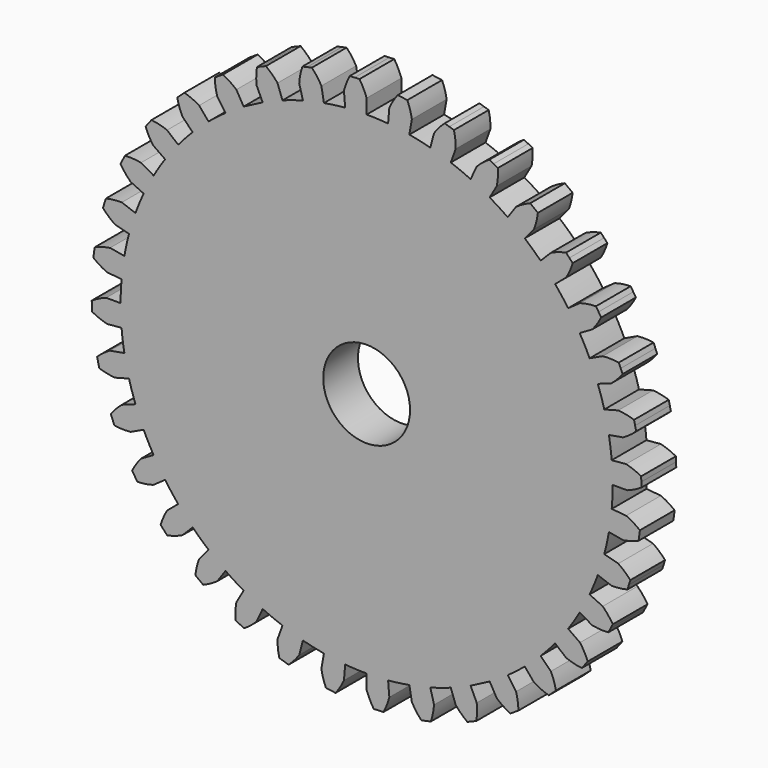
from build123d import *

# Parameters (mm, degrees)
F1_DEPTH = 6.35
F2_R     = 6.35
F3_DEPTH = 6.351


with BuildPart() as f1:
    # F0 (on Front) → F1 (new body)
    with BuildSketch(Plane.XZ):
        with BuildLine():
            Line((-3.320634, 37.955018), (-3.135785, 35.842189))
            ThreePointArc((-3.135785, 35.842189), (-4.696215, 35.671294), (-6.247705, 35.432497))
            Line((-6.247705, 35.432497), (-6.615996, 37.521175))
            ThreePointArc((-6.615996, 37.521175), (-7.254597, 38.511357), (-8.010565, 39.415119))
            Line((-8.010565, 39.415119), (-8.704038, 39.26138))
            Line((-8.704038, 39.26138), (-9.397512, 39.107641))
            ThreePointArc((-9.397512, 39.107641), (-9.700705, 37.969069), (-9.861006, 36.801774))
            Line((-9.861006, 36.801774), (-9.312076, 34.753142))
            ThreePointArc((-9.312076, 34.753142), (-10.819124, 34.313878), (-12.305577, 33.809295))
            Line((-12.305577, 33.809295), (-13.030967, 35.802289))
            ThreePointArc((-13.030967, 35.802289), (-13.831811, 36.666536), (-14.73323, 37.425295))
            Line((-14.73323, 37.425295), (-15.389472, 37.153471))
            Line((-15.389472, 37.153471), (-16.045713, 36.881647))
            ThreePointArc((-16.045713, 36.881647), (-16.146589, 35.707723), (-16.101756, 34.530327))
            Line((-16.101756, 34.530327), (-15.205425, 32.608139))
            Line((-15.205425, 32.608139), (-17.98955, 31.158815))
            Line((-17.98955, 31.158815), (-19.05, 32.995568))
            ThreePointArc((-19.05, 32.995568), (-19.988752, 33.70762), (-21.008234, 34.298322))
            Line((-21.008234, 34.298322), (-21.607304, 33.916673))
            Line((-21.607304, 33.916673), (-22.206373, 33.535023))
            ThreePointArc((-22.206373, 33.535023), (-22.101867, 32.361417), (-21.853262, 31.209693))
            Line((-21.853262, 31.209693), (-20.636764, 29.472353))
            ThreePointArc((-20.636764, 29.472353), (-21.902688, 28.544139), (-23.12692, 27.56159))
            Line((-23.12692, 27.56159), (-24.490208, 29.186293))
            ThreePointArc((-24.490208, 29.186293), (-25.538344, 29.724515), (-26.644913, 30.129212))
            Line((-26.644913, 30.129212), (-27.168608, 29.649333))
            Line((-27.168608, 29.649333), (-27.692304, 29.169455))
            ThreePointArc((-27.692304, 29.169455), (-27.385591, 28.031825), (-26.940768, 26.940768))
            Line((-26.940768, 26.940768), (-25.441066, 25.441066))
            ThreePointArc((-25.441066, 25.441066), (-26.526575, 24.307128), (-27.56159, 23.12692))
            Line((-27.56159, 23.12692), (-29.186293, 24.490208))
            ThreePointArc((-29.186293, 24.490208), (-30.311967, 24.838246), (-31.471999, 25.044641))
            Line((-31.471999, 25.044641), (-31.904409, 24.481114))
            Line((-31.904409, 24.481114), (-32.336819, 23.917587))
            ThreePointArc((-32.336819, 23.917587), (-31.837218, 22.850501), (-31.209693, 21.853262))
            Line((-31.209693, 21.853262), (-29.472353, 20.636764))
            ThreePointArc((-29.472353, 20.636764), (-30.344465, 19.331556), (-31.158815, 17.98955))
            Line((-31.158815, 17.98955), (-32.995568, 19.05))
            ThreePointArc((-32.995568, 19.05), (-34.164577, 19.197279), (-35.342825, 19.199102))
            Line((-35.342825, 19.199102), (-35.67081, 18.569048))
            Line((-35.67081, 18.569048), (-35.998795, 17.938995))
            ThreePointArc((-35.998795, 17.938995), (-35.321487, 16.974876), (-34.530327, 16.101756))
            Line((-34.530327, 16.101756), (-32.608139, 15.205425))
            ThreePointArc((-32.608139, 15.205425), (-33.240354, 13.768605), (-33.809295, 12.305577))
            Line((-33.809295, 12.305577), (-35.802289, 13.030967))
            ThreePointArc((-35.802289, 13.030967), (-36.979113, 12.973013), (-38.139777, 12.770207))
            Line((-38.139777, 12.770207), (-38.353372, 12.092772))
            Line((-38.353372, 12.092772), (-38.566966, 11.415336))
            ThreePointArc((-38.566966, 11.415336), (-37.73253, 10.583477), (-36.801774, 9.861006))
            Line((-36.801774, 9.861006), (-34.753142, 9.312076))
            ThreePointArc((-34.753142, 9.312076), (-35.126252, 7.787303), (-35.432497, 6.247705))
            Line((-35.432497, 6.247705), (-37.521175, 6.615996))
            ThreePointArc((-37.521175, 6.615996), (-38.670057, 6.354568), (-39.777872, 5.953296))
            Line((-39.777872, 5.953296), (-39.870586, 5.249062))
            Line((-39.870586, 5.249062), (-39.9633, 4.544828))
            ThreePointArc((-39.9633, 4.544828), (-38.99709, 3.870505), (-37.955018, 3.320634))
            Line((-37.955018, 3.320634), (-35.842189, 3.135785))
            ThreePointArc((-35.842189, 3.135785), (-35.944856, 1.569386), (-35.9791, 0))
            Line((-35.9791, 0), (-38.1, 0))
            ThreePointArc((-38.1, 0), (-39.186031, -0.456957), (-40.207335, -1.044503))
            Line((-40.207335, -1.044503), (-40.176352, -1.754137))
            Line((-40.176352, -1.754137), (-40.145369, -2.463772))
            ThreePointArc((-40.145369, -2.463772), (-39.076743, -2.96007), (-37.955018, -3.320634))
            Line((-37.955018, -3.320634), (-35.842189, -3.135785))
            ThreePointArc((-35.842189, -3.135785), (-35.671294, -4.696215), (-35.432497, -6.247705))
            Line((-35.432497, -6.247705), (-37.521175, -6.615996))
            ThreePointArc((-37.521175, -6.615996), (-38.511357, -7.254597), (-39.415119, -8.010565))
            Line((-39.415119, -8.010565), (-39.26138, -8.704038))
            Line((-39.26138, -8.704038), (-39.107641, -9.397512))
            ThreePointArc((-39.107641, -9.397512), (-37.969069, -9.700705), (-36.801774, -9.861006))
            Line((-36.801774, -9.861006), (-34.753142, -9.312076))
            ThreePointArc((-34.753142, -9.312076), (-34.313878, -10.819124), (-33.809295, -12.305577))
            Line((-33.809295, -12.305577), (-35.802289, -13.030967))
            ThreePointArc((-35.802289, -13.030967), (-36.666536, -13.831811), (-37.425295, -14.73323))
            Line((-37.425295, -14.73323), (-37.153471, -15.389472))
            Line((-37.153471, -15.389472), (-36.881647, -16.045713))
            ThreePointArc((-36.881647, -16.045713), (-35.707723, -16.146589), (-34.530327, -16.101756))
            Line((-34.530327, -16.101756), (-32.608139, -15.205425))
            ThreePointArc((-32.608139, -15.205425), (-31.913851, -16.6133), (-31.158815, -17.98955))
            Line((-31.158815, -17.98955), (-32.995568, -19.05))
            ThreePointArc((-32.995568, -19.05), (-33.70762, -19.988752), (-34.298322, -21.008234))
            Line((-34.298322, -21.008234), (-33.916673, -21.607304))
            Line((-33.916673, -21.607304), (-33.535023, -22.206373))
            ThreePointArc((-33.535023, -22.206373), (-32.361417, -22.101867), (-31.209693, -21.853262))
            Line((-31.209693, -21.853262), (-29.472353, -20.636764))
            ThreePointArc((-29.472353, -20.636764), (-28.544139, -21.902688), (-27.56159, -23.12692))
            Line((-27.56159, -23.12692), (-29.186293, -24.490208))
            ThreePointArc((-29.186293, -24.490208), (-29.724515, -25.538344), (-30.129212, -26.644913))
            Line((-30.129212, -26.644913), (-29.649333, -27.168608))
            Line((-29.649333, -27.168608), (-29.169455, -27.692304))
            ThreePointArc((-29.169455, -27.692304), (-28.031825, -27.385591), (-26.940768, -26.940768))
            Line((-26.940768, -26.940768), (-25.441066, -25.441066))
            ThreePointArc((-25.441066, -25.441066), (-24.307128, -26.526575), (-23.12692, -27.56159))
            Line((-23.12692, -27.56159), (-24.490208, -29.186293))
            ThreePointArc((-24.490208, -29.186293), (-24.838246, -30.311967), (-25.044641, -31.471999))
            Line((-25.044641, -31.471999), (-24.481114, -31.904409))
            Line((-24.481114, -31.904409), (-23.917587, -32.336819))
            ThreePointArc((-23.917587, -32.336819), (-22.850501, -31.837218), (-21.853262, -31.209693))
            Line((-21.853262, -31.209693), (-20.636764, -29.472353))
            ThreePointArc((-20.636764, -29.472353), (-19.331556, -30.344465), (-17.98955, -31.158815))
            Line((-17.98955, -31.158815), (-19.05, -32.995568))
            ThreePointArc((-19.05, -32.995568), (-19.197279, -34.164577), (-19.199102, -35.342825))
            Line((-19.199102, -35.342825), (-18.569048, -35.67081))
            Line((-18.569048, -35.67081), (-17.938995, -35.998795))
            ThreePointArc((-17.938995, -35.998795), (-16.974876, -35.321487), (-16.101756, -34.530327))
            Line((-16.101756, -34.530327), (-15.205425, -32.608139))
            ThreePointArc((-15.205425, -32.608139), (-13.768605, -33.240354), (-12.305577, -33.809295))
            Line((-12.305577, -33.809295), (-13.030967, -35.802289))
            ThreePointArc((-13.030967, -35.802289), (-12.973013, -36.979113), (-12.770207, -38.139777))
            Line((-12.770207, -38.139777), (-12.092772, -38.353372))
            Line((-12.092772, -38.353372), (-11.415336, -38.566966))
            ThreePointArc((-11.415336, -38.566966), (-10.583477, -37.73253), (-9.861006, -36.801774))
            Line((-9.861006, -36.801774), (-9.312076, -34.753142))
            ThreePointArc((-9.312076, -34.753142), (-7.787303, -35.126252), (-6.247705, -35.432497))
            Line((-6.247705, -35.432497), (-6.615996, -37.521175))
            ThreePointArc((-6.615996, -37.521175), (-6.354568, -38.670057), (-5.953296, -39.777872))
            Line((-5.953296, -39.777872), (-5.249062, -39.870586))
            Line((-5.249062, -39.870586), (-4.544828, -39.9633))
            ThreePointArc((-4.544828, -39.9633), (-3.870505, -38.99709), (-3.320634, -37.955018))
            Line((-3.320634, -37.955018), (-3.135785, -35.842189))
            ThreePointArc((-3.135785, -35.842189), (-1.569386, -35.944856), (0, -35.9791))
            Line((0, -35.9791), (0, -38.1))
            ThreePointArc((0, -38.1), (0.456957, -39.186031), (1.044503, -40.207335))
            Line((1.044503, -40.207335), (1.754137, -40.176352))
            Line((1.754137, -40.176352), (2.463772, -40.145369))
            ThreePointArc((2.463772, -40.145369), (2.96007, -39.076743), (3.320634, -37.955018))
            Line((3.320634, -37.955018), (3.135785, -35.842189))
            ThreePointArc((3.135785, -35.842189), (4.696215, -35.671294), (6.247705, -35.432497))
            Line((6.247705, -35.432497), (6.615996, -37.521175))
            ThreePointArc((6.615996, -37.521175), (7.254597, -38.511357), (8.010565, -39.415119))
            Line((8.010565, -39.415119), (8.704038, -39.26138))
            Line((8.704038, -39.26138), (9.397512, -39.107641))
            ThreePointArc((9.397512, -39.107641), (9.700705, -37.969069), (9.861006, -36.801774))
            Line((9.861006, -36.801774), (9.312076, -34.753142))
            ThreePointArc((9.312076, -34.753142), (10.819124, -34.313878), (12.305577, -33.809295))
            Line((12.305577, -33.809295), (13.030967, -35.802289))
            ThreePointArc((13.030967, -35.802289), (13.831811, -36.666536), (14.73323, -37.425295))
            Line((14.73323, -37.425295), (15.389472, -37.153471))
            Line((15.389472, -37.153471), (16.045713, -36.881647))
            ThreePointArc((16.045713, -36.881647), (16.146589, -35.707723), (16.101756, -34.530327))
            Line((16.101756, -34.530327), (15.205425, -32.608139))
            Line((15.205425, -32.608139), (17.98955, -31.158815))
            Line((17.98955, -31.158815), (19.05, -32.995568))
            ThreePointArc((19.05, -32.995568), (19.988752, -33.70762), (21.008234, -34.298322))
            Line((21.008234, -34.298322), (21.607304, -33.916673))
            Line((21.607304, -33.916673), (22.206373, -33.535023))
            ThreePointArc((22.206373, -33.535023), (22.101867, -32.361417), (21.853262, -31.209693))
            Line((21.853262, -31.209693), (20.636764, -29.472353))
            ThreePointArc((20.636764, -29.472353), (21.902688, -28.544139), (23.12692, -27.56159))
            Line((23.12692, -27.56159), (24.490208, -29.186293))
            ThreePointArc((24.490208, -29.186293), (25.538344, -29.724515), (26.644913, -30.129212))
            Line((26.644913, -30.129212), (27.168608, -29.649333))
            Line((27.168608, -29.649333), (27.692304, -29.169455))
            ThreePointArc((27.692304, -29.169455), (27.385591, -28.031825), (26.940768, -26.940768))
            Line((26.940768, -26.940768), (25.441066, -25.441066))
            ThreePointArc((25.441066, -25.441066), (26.526575, -24.307128), (27.56159, -23.12692))
            Line((27.56159, -23.12692), (29.186293, -24.490208))
            ThreePointArc((29.186293, -24.490208), (30.311967, -24.838246), (31.471999, -25.044641))
            Line((31.471999, -25.044641), (31.904409, -24.481114))
            Line((31.904409, -24.481114), (32.336819, -23.917587))
            ThreePointArc((32.336819, -23.917587), (31.837218, -22.850501), (31.209693, -21.853262))
            Line((31.209693, -21.853262), (29.472353, -20.636764))
            ThreePointArc((29.472353, -20.636764), (30.344465, -19.331556), (31.158815, -17.98955))
            Line((31.158815, -17.98955), (32.995568, -19.05))
            ThreePointArc((32.995568, -19.05), (34.164577, -19.197279), (35.342825, -19.199102))
            Line((35.342825, -19.199102), (35.67081, -18.569048))
            Line((35.67081, -18.569048), (35.998795, -17.938995))
            ThreePointArc((35.998795, -17.938995), (35.321487, -16.974876), (34.530327, -16.101756))
            Line((34.530327, -16.101756), (32.608139, -15.205425))
            ThreePointArc((32.608139, -15.205425), (33.240354, -13.768605), (33.809295, -12.305577))
            Line((33.809295, -12.305577), (35.802289, -13.030967))
            ThreePointArc((35.802289, -13.030967), (36.979113, -12.973013), (38.139777, -12.770207))
            Line((38.139777, -12.770207), (38.353372, -12.092772))
            Line((38.353372, -12.092772), (38.566966, -11.415336))
            ThreePointArc((38.566966, -11.415336), (37.73253, -10.583477), (36.801774, -9.861006))
            Line((36.801774, -9.861006), (34.753142, -9.312076))
            ThreePointArc((34.753142, -9.312076), (35.126252, -7.787303), (35.432497, -6.247705))
            Line((35.432497, -6.247705), (37.521175, -6.615996))
            ThreePointArc((37.521175, -6.615996), (38.670057, -6.354568), (39.777872, -5.953296))
            Line((39.777872, -5.953296), (39.870586, -5.249062))
            Line((39.870586, -5.249062), (39.9633, -4.544828))
            ThreePointArc((39.9633, -4.544828), (38.99709, -3.870505), (37.955018, -3.320634))
            Line((37.955018, -3.320634), (35.842189, -3.135785))
            ThreePointArc((35.842189, -3.135785), (35.944856, -1.569386), (35.9791, 0))
            Line((35.9791, 0), (38.1, 0))
            ThreePointArc((38.1, 0), (39.186031, 0.456957), (40.207335, 1.044503))
            Line((40.207335, 1.044503), (40.176352, 1.754137))
            Line((40.176352, 1.754137), (40.145369, 2.463772))
            ThreePointArc((40.145369, 2.463772), (39.076743, 2.96007), (37.955018, 3.320634))
            Line((37.955018, 3.320634), (35.842189, 3.135785))
            ThreePointArc((35.842189, 3.135785), (35.671294, 4.696215), (35.432497, 6.247705))
            Line((35.432497, 6.247705), (37.521175, 6.615996))
            ThreePointArc((37.521175, 6.615996), (38.511357, 7.254597), (39.415119, 8.010565))
            Line((39.415119, 8.010565), (39.26138, 8.704038))
            Line((39.26138, 8.704038), (39.107641, 9.397512))
            ThreePointArc((39.107641, 9.397512), (37.969069, 9.700705), (36.801774, 9.861006))
            Line((36.801774, 9.861006), (34.753142, 9.312076))
            ThreePointArc((34.753142, 9.312076), (34.313878, 10.819124), (33.809295, 12.305577))
            Line((33.809295, 12.305577), (35.802289, 13.030967))
            ThreePointArc((35.802289, 13.030967), (36.666536, 13.831811), (37.425295, 14.73323))
            Line((37.425295, 14.73323), (37.153471, 15.389472))
            Line((37.153471, 15.389472), (36.881647, 16.045713))
            ThreePointArc((36.881647, 16.045713), (35.707723, 16.146589), (34.530327, 16.101756))
            Line((34.530327, 16.101756), (32.608139, 15.205425))
            ThreePointArc((32.608139, 15.205425), (31.913851, 16.6133), (31.158815, 17.98955))
            Line((31.158815, 17.98955), (32.995568, 19.05))
            ThreePointArc((32.995568, 19.05), (33.70762, 19.988752), (34.298322, 21.008234))
            Line((34.298322, 21.008234), (33.916673, 21.607304))
            Line((33.916673, 21.607304), (33.535023, 22.206373))
            ThreePointArc((33.535023, 22.206373), (32.361417, 22.101867), (31.209693, 21.853262))
            Line((31.209693, 21.853262), (29.472353, 20.636764))
            ThreePointArc((29.472353, 20.636764), (28.544139, 21.902688), (27.56159, 23.12692))
            Line((27.56159, 23.12692), (29.186293, 24.490208))
            ThreePointArc((29.186293, 24.490208), (29.724515, 25.538344), (30.129212, 26.644913))
            Line((30.129212, 26.644913), (29.649333, 27.168608))
            Line((29.649333, 27.168608), (29.169455, 27.692304))
            ThreePointArc((29.169455, 27.692304), (28.031825, 27.385591), (26.940768, 26.940768))
            Line((26.940768, 26.940768), (25.441066, 25.441066))
            ThreePointArc((25.441066, 25.441066), (24.307128, 26.526575), (23.12692, 27.56159))
            Line((23.12692, 27.56159), (24.490208, 29.186293))
            ThreePointArc((24.490208, 29.186293), (24.838246, 30.311967), (25.044641, 31.471999))
            Line((25.044641, 31.471999), (24.481114, 31.904409))
            Line((24.481114, 31.904409), (23.917587, 32.336819))
            ThreePointArc((23.917587, 32.336819), (22.850501, 31.837218), (21.853262, 31.209693))
            Line((21.853262, 31.209693), (20.636764, 29.472353))
            ThreePointArc((20.636764, 29.472353), (19.331556, 30.344465), (17.98955, 31.158815))
            Line((17.98955, 31.158815), (19.05, 32.995568))
            ThreePointArc((19.05, 32.995568), (19.197279, 34.164577), (19.199102, 35.342825))
            Line((19.199102, 35.342825), (18.569048, 35.67081))
            Line((18.569048, 35.67081), (17.938995, 35.998795))
            ThreePointArc((17.938995, 35.998795), (16.974876, 35.321487), (16.101756, 34.530327))
            Line((16.101756, 34.530327), (15.205425, 32.608139))
            ThreePointArc((15.205425, 32.608139), (13.768605, 33.240354), (12.305577, 33.809295))
            Line((12.305577, 33.809295), (13.030967, 35.802289))
            ThreePointArc((13.030967, 35.802289), (12.973013, 36.979113), (12.770207, 38.139777))
            Line((12.770207, 38.139777), (12.092772, 38.353372))
            Line((12.092772, 38.353372), (11.415336, 38.566966))
            ThreePointArc((11.415336, 38.566966), (10.583477, 37.73253), (9.861006, 36.801774))
            Line((9.861006, 36.801774), (9.312076, 34.753142))
            ThreePointArc((9.312076, 34.753142), (7.787303, 35.126252), (6.247705, 35.432497))
            Line((6.247705, 35.432497), (6.615996, 37.521175))
            ThreePointArc((6.615996, 37.521175), (6.354568, 38.670057), (5.953296, 39.777872))
            Line((5.953296, 39.777872), (5.249062, 39.870586))
            Line((5.249062, 39.870586), (4.544828, 39.9633))
            ThreePointArc((4.544828, 39.9633), (3.870505, 38.99709), (3.320634, 37.955018))
            Line((3.320634, 37.955018), (3.135785, 35.842189))
            ThreePointArc((3.135785, 35.842189), (1.569386, 35.944856), (0, 35.9791))
            Line((0, 35.9791), (0, 38.1))
            ThreePointArc((0, 38.1), (-0.456957, 39.186031), (-1.044503, 40.207335))
            Line((-1.044503, 40.207335), (-1.754137, 40.176352))
            Line((-1.754137, 40.176352), (-2.463772, 40.145369))
            ThreePointArc((-2.463772, 40.145369), (-2.96007, 39.076743), (-3.320634, 37.955018))
        make_face()
    extrude(amount=F1_DEPTH)

    # F2 (on face) → F3 (cut, through all)
    with BuildSketch(Plane.XZ.offset(6.35)):
        Circle(F2_R)
    extrude(amount=-F3_DEPTH, mode=Mode.SUBTRACT)


solid = f1.part
